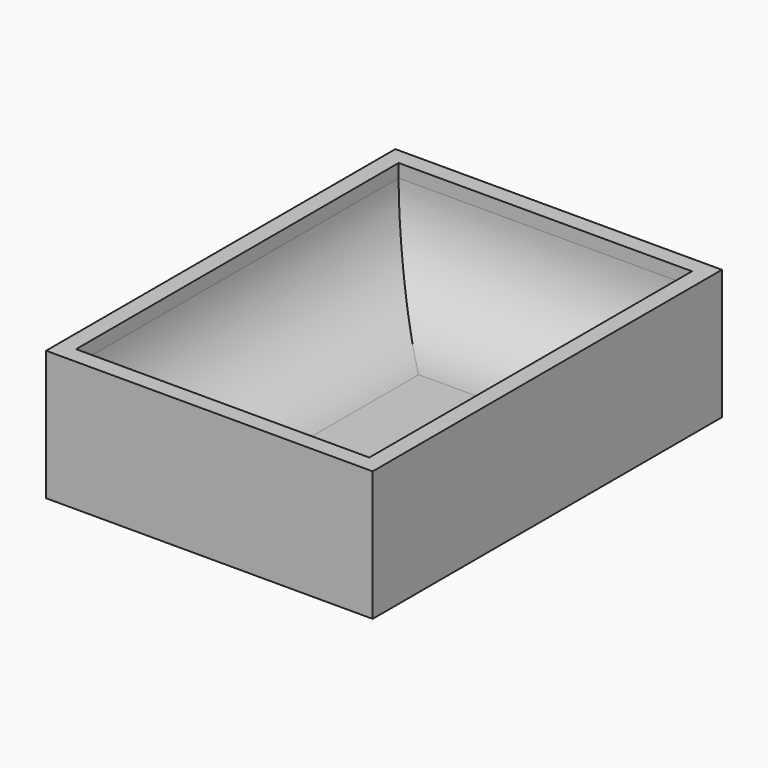
from build123d import *

# Parameters (mm, degrees)
F0_W     = 49.8126782477
F0_H     = 66.5889680386
F1_DEPTH = 19.812
F2_T     = -2.54
F3_R     = 15.24


with BuildPart() as f1:
    # F0 (on Top) → F1 (new body)
    with BuildSketch(Plane.XY):
        with Locations((-5.807178095, 4.1295476258)):
            Rectangle(F0_W, F0_H)
    extrude(amount=-F1_DEPTH)

    # F2
    f2_openings = [f1.faces().sort_by_distance(p)[0] for p in [
        (-5.807178, 4.129548, 0),
    ]]
    offset(amount=F2_T, openings=f2_openings)

    # F3
    f3_edges = [f1.edges().sort_by_distance(p)[0] for p in [
        (16.559161, 4.129548, -17.272),
        (-5.807178, -26.624936, -17.272),
        (-5.807178, 34.884032, -17.272),
        (-28.173517, 4.129548, -17.272),
    ]]
    fillet(f3_edges, radius=F3_R)


solid = f1.part
